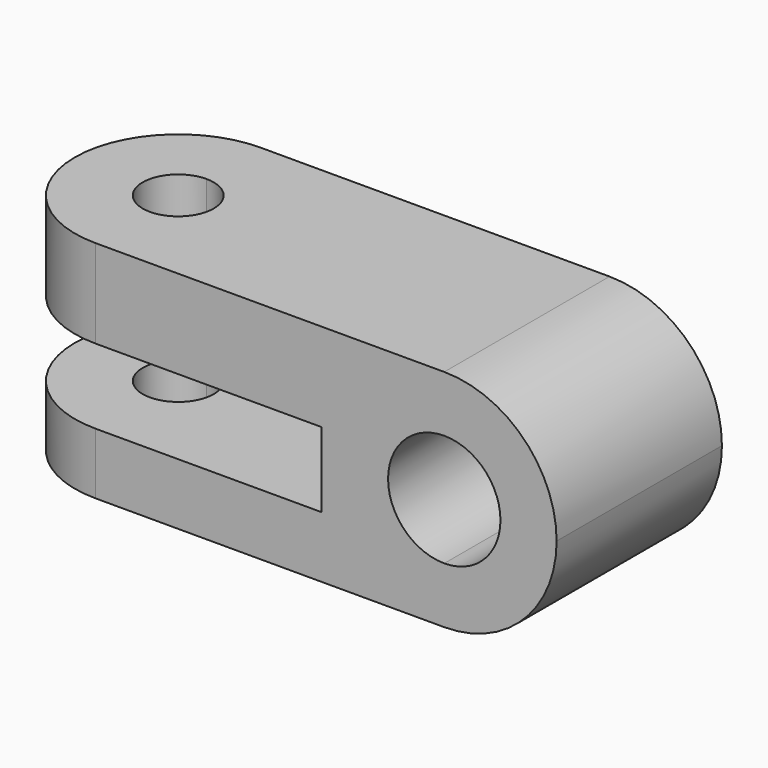
from build123d import *

# Parameters (mm, degrees)
F1_DEPTH  = 40.64
F3_DEPTH  = 44.196
F4_W      = 44.45
F4_H      = 14.732
F5_DEPTH  = 40.641
F6_W      = 20.32
F6_H      = 14.732
F7_DEPTH  = 40.641
F9_DEPTH  = 44.197
F11_DEPTH = 40.641


with BuildPart() as f1:
    # F0 (on Front) → F1 (new body)
    with BuildSketch(Plane.XZ):
        with BuildLine():
            Line((68.58, 0), (0, 0))
            Line((0, 0), (0, -44.196))
            Line((0, -44.196), (68.58, -44.196))
            ThreePointArc((68.58, -44.196), (46.482, -22.098), (68.58, 0))
        make_face()
        with BuildLine():
            ThreePointArc((90.678, -22.098), (84.2056456507, -6.4723543493), (68.58, 0))
            Line((68.58, 0), (68.58, -44.196))
            ThreePointArc((68.58, -44.196), (84.2056456507, -37.7236456507), (90.678, -22.098))
        make_face()
        with BuildLine():
            Line((68.58, -44.196), (68.58, 0))
            ThreePointArc((68.58, 0), (46.482, -22.098), (68.58, -44.196))
        make_face()
    extrude(amount=F1_DEPTH)

    # F2 (on face) → F3 (join)
    with BuildSketch(Plane.XY):
        with BuildLine():
            Line((0, -40.64), (0, 0))
            ThreePointArc((0, 0), (-20.32, -20.32), (0, -40.64))
        make_face()
    extrude(amount=-F3_DEPTH)

    # F4 (on face) → F5 (cut, through all)
    with BuildSketch(Plane.XZ.offset(40.64)):
        with Locations((22.225, -24.7622483637)):
            Rectangle(F4_W, F4_H)
    extrude(amount=-F5_DEPTH, mode=Mode.SUBTRACT)

    # F6 (on face) → F7 (cut, through all)
    with BuildSketch(Plane.XZ.offset(40.64)):
        with Locations((-10.16, -24.7622483637)):
            Rectangle(F6_W, F6_H)
    extrude(amount=-F7_DEPTH, mode=Mode.SUBTRACT)

    # F8 (on face) → F9 (cut, through all)
    with BuildSketch(Plane.XY):
        with BuildLine():
            ThreePointArc((0, -13.335), (-6.985, -20.32), (0, -27.305))
            Line((0, -27.305), (0, -13.335))
        make_face()
        with BuildLine():
            Line((0, -13.335), (0, -27.305))
            ThreePointArc((0, -27.305), (4.9391408666, -25.2591408666), (6.985, -20.32))
            ThreePointArc((6.985, -20.32), (4.9391408666, -15.3808591334), (0, -13.335))
        make_face()
    extrude(amount=-F9_DEPTH, mode=Mode.SUBTRACT)

    # F10 (on face) → F11 (cut, through all)
    with BuildSketch(Plane.XZ.offset(40.64)):
        with BuildLine():
            ThreePointArc((79.629, -22.098), (76.3928228253, -14.2851771747), (68.58, -11.049))
            Line((68.58, -11.049), (68.58, -33.147))
            ThreePointArc((68.58, -33.147), (76.3928228253, -29.9108228253), (79.629, -22.098))
        make_face()
        with BuildLine():
            Line((68.58, -33.147), (68.58, -11.049))
            ThreePointArc((68.58, -11.049), (57.531, -22.098), (68.58, -33.147))
        make_face()
    extrude(amount=-F11_DEPTH, mode=Mode.SUBTRACT)


solid = f1.part
